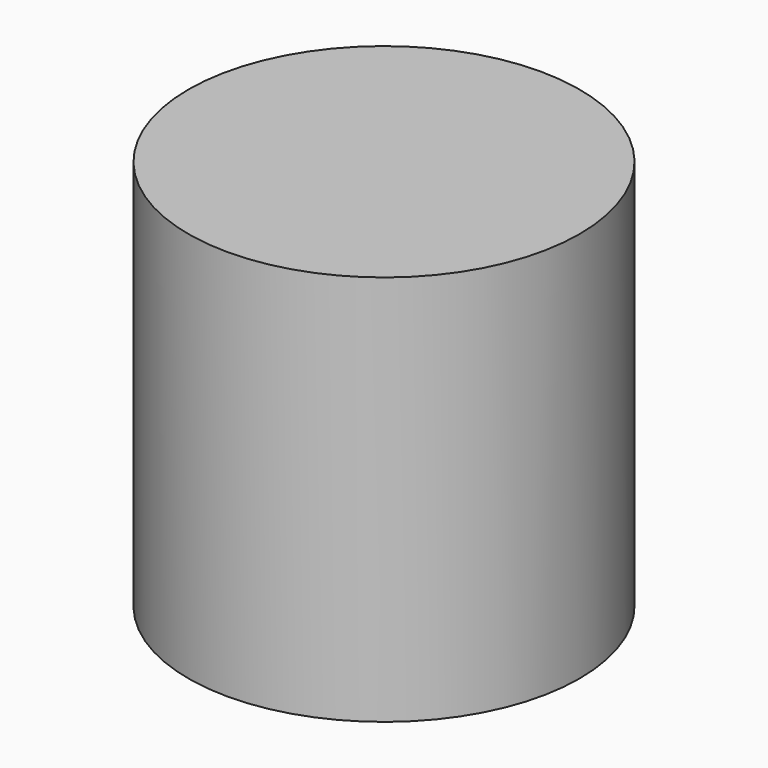
from build123d import *

# Parameters (mm, degrees)
SKETCH001_R  = 40
PAD001_DEPTH = 90
SKETCH_R     = 50
PAD_DEPTH    = 100
CHAMFER_SIZE = 3


with BuildPart() as body001:
    # Sketch001 → Pad001 (new body)
    with BuildSketch(Plane.XY):
        Circle(SKETCH001_R)
    extrude(amount=PAD001_DEPTH)


with BuildPart() as chamfer_body:
    # Sketch → Pad (new body)
    with BuildSketch(Plane.XY):
        Circle(SKETCH_R)
    extrude(amount=PAD_DEPTH)

    # Cut: cut Body001
    add(body001.part, mode=Mode.SUBTRACT)

    # Chamfer
    chamfer_edges = [chamfer_body.edges().sort_by_distance(p)[0] for p in [
        (-40, 0, 0),
    ]]
    chamfer(chamfer_edges, length=CHAMFER_SIZE)


solid = chamfer_body.part
